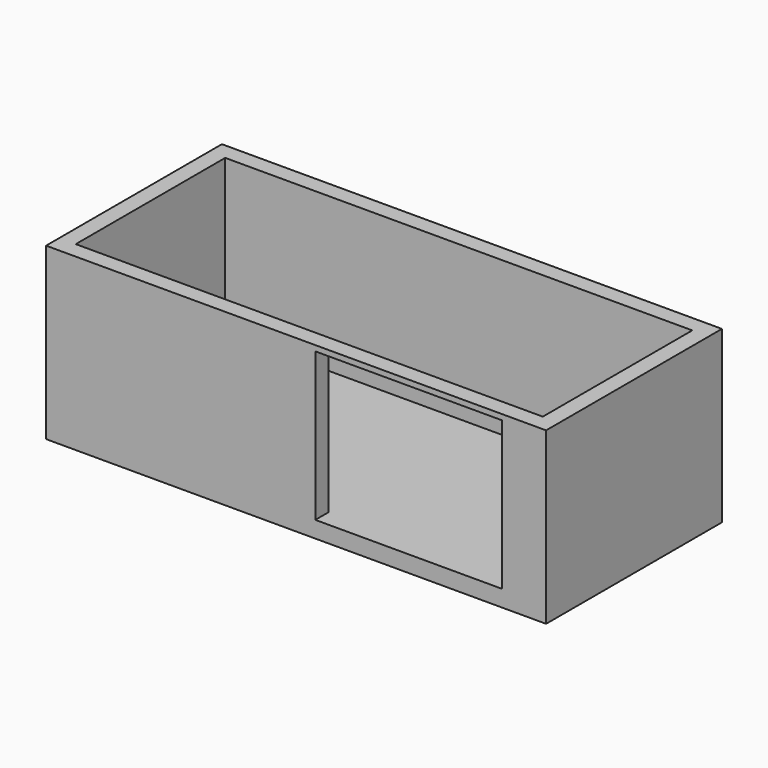
from build123d import *

# Parameters (mm, degrees)
F0_W     = 45.5000007218
F0_H     = 20.0000007218
F0_W_2   = 42.5
F0_H_2   = 17
F0_R     = 1.7580829865
F1_DEPTH = 1.5
F2_DEPTH = 14
F3_W     = 17
F3_H     = 13.5
F4_DEPTH = 2


with BuildPart() as f1:
    # F0 (on Top) → F1 (new body)
    with BuildSketch(Plane.XY):
        with Locations((1.4756151661, 0.1818094146)):
            Rectangle(F0_W, F0_H)
        with Locations((1.4756151661, 0.1818094146)):
            Rectangle(F0_W_2, F0_H_2, mode=Mode.SUBTRACT)
        with Locations((1.4756151661, 0.1818094146)):
            Rectangle(F0_W_2, F0_H_2)
        with Locations((18.9648512751, -4.5714476146)):
            Circle(F0_R, mode=Mode.SUBTRACT)
    extrude(amount=-F1_DEPTH)

    # F0 (on Top) → F2 (join)
    with BuildSketch(Plane.XY):
        with Locations((1.4756151661, 0.1818094146)):
            Rectangle(F0_W, F0_H)
        with Locations((1.4756151661, 0.1818094146)):
            Rectangle(F0_W_2, F0_H_2, mode=Mode.SUBTRACT)
    extrude(amount=F2_DEPTH)

    # F3 (on face) → F4 (cut)
    with BuildSketch(Plane.XZ.offset(9.8181909463)):
        with Locations((11.725615527, 6.75)):
            Rectangle(F3_W, F3_H)
    extrude(amount=-F4_DEPTH, mode=Mode.SUBTRACT)


solid = f1.part
